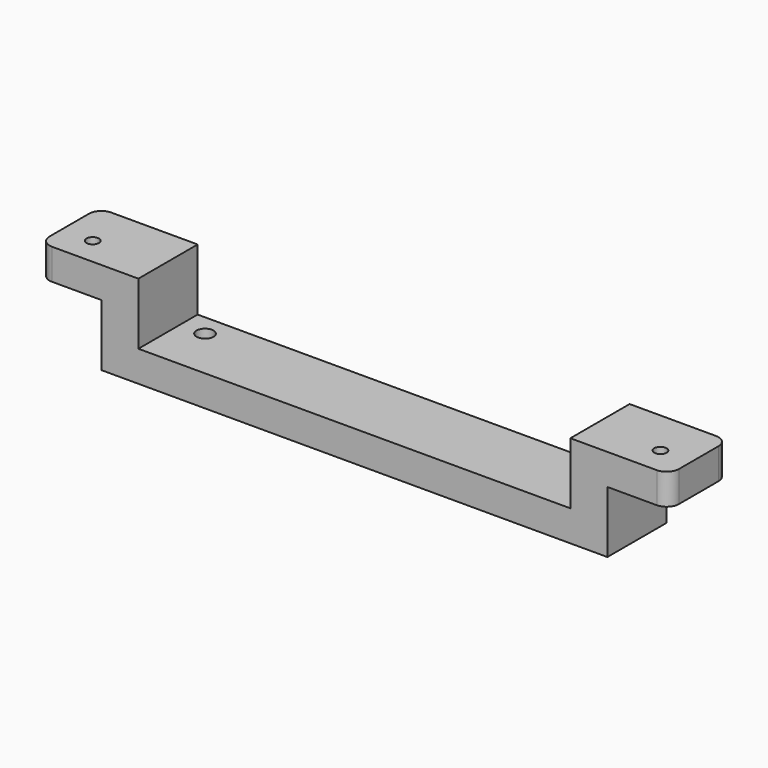
from build123d import *

# Parameters (mm, degrees)
F1_DEPTH      = 15
F2_W          = 70
F2_H          = 12
F3_DEPTH      = 10
F4_R          = 1.375
F4_R_2        = 1
F5_DEPTH      = 25
F5_DEPTH_BACK = 25
F6_R          = 1
F7_DEPTH      = 10


with BuildPart() as f1:
    # F0 (on Top) → F1 (new body)
    with BuildSketch(Plane.XY):
        with BuildLine():
            ThreePointArc((-15.4861029406, 2), (-14.9003165029, 0.5857864376), (-13.4861029406, 0))
            Line((-13.4861029406, 0), (84.5138970594, 0))
            ThreePointArc((84.5138970594, 0), (85.9281106218, 0.5857864376), (86.5138970594, 2))
            Line((86.5138970594, 2), (86.5138970594, 10))
            ThreePointArc((86.5138970594, 10), (85.9281106218, 11.4142135624), (84.5138970594, 12))
            Line((84.5138970594, 12), (-13.4861029406, 12))
            ThreePointArc((-13.4861029406, 12), (-14.9003165029, 11.4142135624), (-15.4861029406, 10))
            Line((-15.4861029406, 10), (-15.4861029406, 2))
        make_face()
    extrude(amount=F1_DEPTH)

    # F2 (on face) → F3 (cut)
    with BuildSketch(Plane.XY.offset(15)):
        with Locations((35.5138970594, 6)):
            Rectangle(F2_W, F2_H)
    extrude(amount=-F3_DEPTH, mode=Mode.SUBTRACT)

    # F4 (on face) → F5 (cut, two sides)
    with BuildSketch(Plane.XY.offset(5)) as f5_sk:
        with Locations((4.5138970594, 8.5)):
            Circle(F4_R)
        with Locations((66.5138970594, 8.5)):
            Circle(F4_R)
        with Locations((-10.4861029406, 4.5)):
            Circle(F4_R_2)
        with Locations((81.5138970594, 4.5)):
            Circle(F4_R_2)
    extrude(amount=-F5_DEPTH, mode=Mode.SUBTRACT)
    extrude(f5_sk.sketch, amount=F5_DEPTH_BACK, mode=Mode.SUBTRACT)

    # F6 (on face) → F7 (cut)
    with BuildSketch(Plane(origin=(0, 0, 0), x_dir=(1, 0, 0), z_dir=(0, 0, -1))):
        with BuildLine():
            Line((76.5138970594, 0), (76.5138970594, -12))
            Line((76.5138970594, -12), (84.5138970594, -12))
            ThreePointArc((84.5138970594, -12), (85.9281106218, -11.4142135624), (86.5138970594, -10))
            Line((86.5138970594, -10), (86.5138970594, -2))
            ThreePointArc((86.5138970594, -2), (85.9281106218, -0.5857864376), (84.5138970594, 0))
            Line((84.5138970594, 0), (76.5138970594, 0))
        make_face()
        with Locations((81.5138970594, -4.5)):
            Circle(F6_R, mode=Mode.SUBTRACT)
        with BuildLine():
            Line((-13.4861029406, -12), (-5.4861029406, -12))
            Line((-5.4861029406, -12), (-5.4861029406, 0))
            Line((-5.4861029406, 0), (-13.4861029406, 0))
            ThreePointArc((-13.4861029406, 0), (-14.9003165029, -0.5857864376), (-15.4861029406, -2))
            Line((-15.4861029406, -2), (-15.4861029406, -10))
            ThreePointArc((-15.4861029406, -10), (-14.9003165029, -11.4142135624), (-13.4861029406, -12))
        make_face()
        with Locations((-10.4861029406, -4.5)):
            Circle(F6_R, mode=Mode.SUBTRACT)
    extrude(amount=-F7_DEPTH, mode=Mode.SUBTRACT)


solid = f1.part
